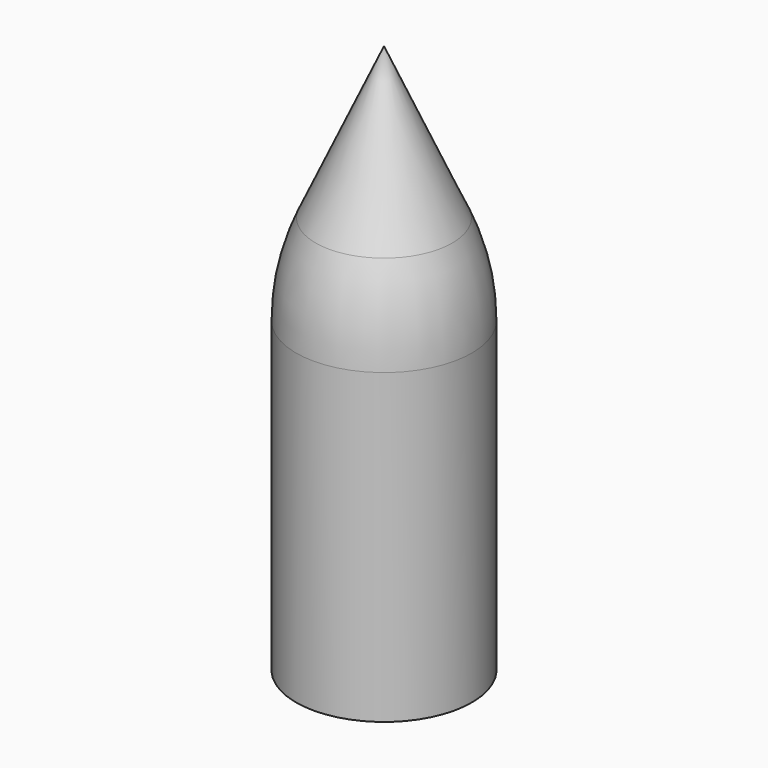
from build123d import *

# Parameters (mm, degrees)
F2_T = -2.54


with BuildPart() as f1:
    # F0 (on Right) → F1 (revolve)
    with BuildSketch(Plane.YZ):
        with BuildLine():
            Line((-101.6, 0), (0, 0))
            Line((0, 0), (0, 635))
            Line((0, 635), (-79.028264, 460.275492))
            ThreePointArc((-79.028264, 460.275492), (-95.892951, 409.140737), (-101.6, 355.6))
            Line((-101.6, 355.6), (-101.6, 0))
        make_face()
    revolve(axis=Axis((0, 0, 317.5), (0, 0, 1)))

    # F2
    f2_openings = [f1.faces().sort_by_distance(p)[0] for p in [
        (0, 0, 0),
    ]]
    offset(amount=F2_T, openings=f2_openings)


solid = f1.part
